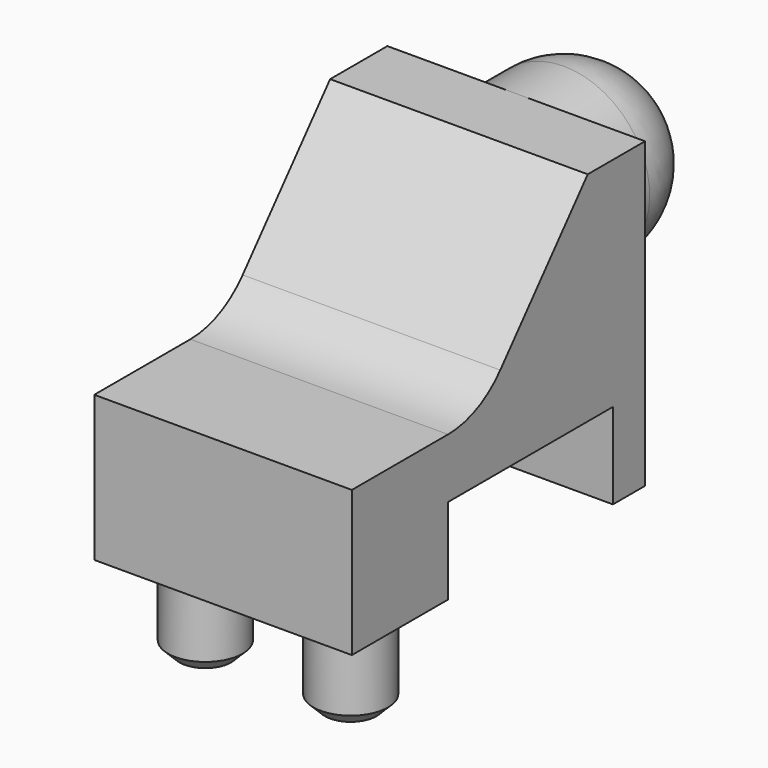
from build123d import *

# Parameters (mm, degrees)
PAD013_DEPTH    = 2.25
SKETCH022_R     = 0.65
PAD014_DEPTH    = 1.6
CHAMFER003_SIZE = 0.2


with BuildPart() as part:
    # Sketch020 → Pad013 (new body, symmetric)
    with BuildSketch(Plane.YZ):
        with BuildLine():
            Line((0, 0), (0, 5.3))
            Line((0, 5.3), (-1.25, 5.3))
            Line((-1.25, 5.3), (-3.159701, 3.065466))
            ThreePointArc((-4.3, 2.54), (-3.672227, 2.677686), (-3.159701, 3.065466))
            Line((-4.3, 2.54), (-6.4, 2.54))
            Line((-6.4, 2.54), (-6.4, 0))
            Line((-6.4, 0), (-4.3, 0))
            Line((-4.3, 0), (-4.3, 1.5))
            Line((-4.3, 1.5), (-0.7, 1.5))
            Line((-0.7, 1.5), (-0.7, 0))
            Line((-0.7, 0), (0, 0))
        make_face()
    extrude(amount=PAD013_DEPTH, both=True)

    # Sketch021 → Revolution (revolve)
    with BuildSketch(Plane.YZ):
        with BuildLine():
            Line((0, 3.8), (2.54, 3.8))
            ThreePointArc((2.54, 3.8), (2.10066, 4.86066), (1.04, 5.3))
            Line((1.04, 5.3), (0, 5.3))
            Line((0, 5.3), (0, 3.8))
        make_face()
    revolve(axis=Axis((0, 2.54, 3.8), (0, 1, 0)))

    # Sketch022 → Pad014 (join)
    with BuildSketch(Plane.XY):
        with Locations((-1.27, -5.2)):
            Circle(SKETCH022_R)
    pad014 = extrude(amount=-PAD014_DEPTH)

    # Mirrored003: Pad014 across Sketch022 V_Axis
    add(pad014.mirror(Plane(origin=(0, 0, 0), x_dir=(0, 0, 1), z_dir=(1, 0, 0))))

    # Chamfer003
    chamfer003_edges = [part.edges().sort_by_distance(p)[0] for p in [
        (1.92, -5.2, -1.6),
        (-1.92, -5.2, -1.6),
    ]]
    chamfer(chamfer003_edges, length=CHAMFER003_SIZE)


solid = part.part
